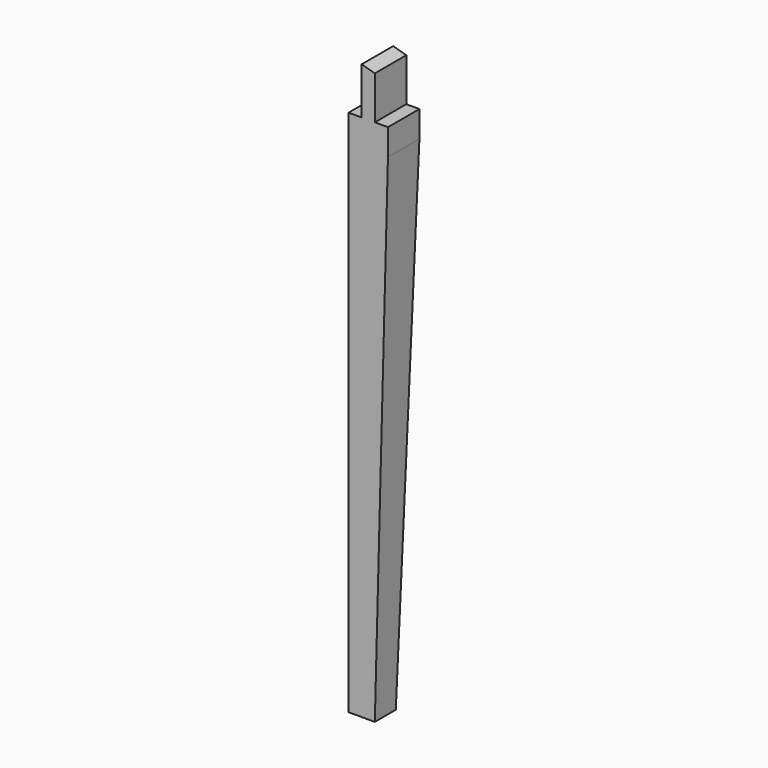
from build123d import *

# Parameters (mm, degrees)
F1_DEPTH = 30
F3_DEPTH = 30
F5_DEPTH = 30


with BuildPart() as f1:
    # F0 (on Front) → F1 (new body)
    with BuildSketch(Plane.XZ):
        Polygon((0, 441), (0, 0), (20, 0), (30, 382.397638), (30, 432.397638), align=None)
    extrude(amount=F1_DEPTH)

    # F2 (on face) → F3 (cut)
    with BuildSketch(Plane(origin=(0, 0, 0), x_dir=(0, -1, 0), z_dir=(-1, 0, 0))):
        Polygon((0, 382.058233), (0, 0), (10, 0), align=None)
    extrude(amount=-F3_DEPTH, mode=Mode.SUBTRACT)

    # F4 (on face) → F5 (cut)
    with BuildSketch(Plane.XZ.offset(30)):
        Polygon((30, 402.397638), (30, 432.397638), (20, 435.265092), (20, 402.397638), align=None)
        Polygon((0, 441), (0, 402.397638), (10, 402.397638), (10, 438.132546), align=None)
    extrude(amount=-F5_DEPTH, mode=Mode.SUBTRACT)


solid = f1.part
